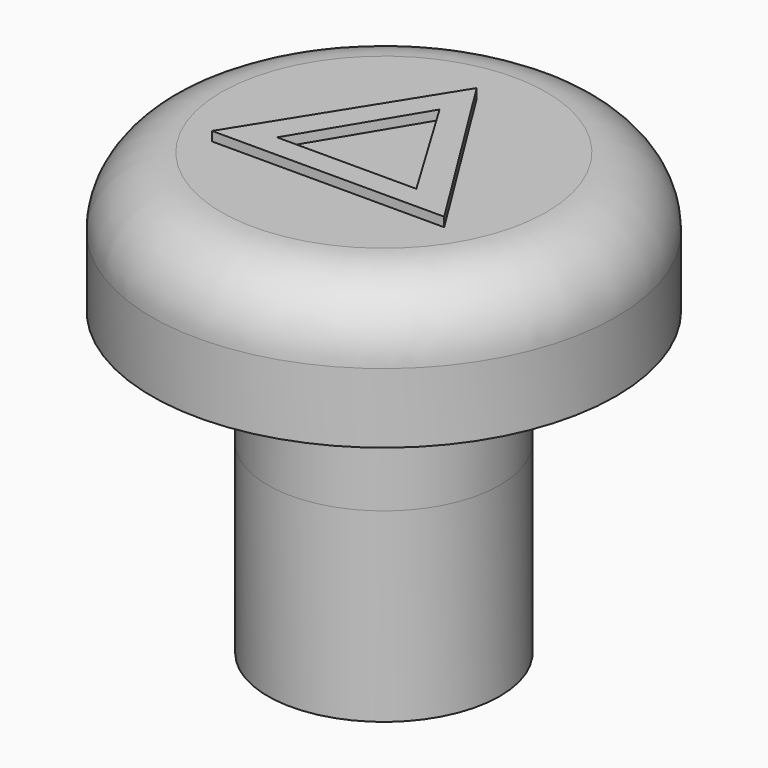
from build123d import *

# Parameters (mm, degrees)
SKETCH046_R     = 2.5
PAD023_DEPTH    = 2.5
SKETCH047_R     = 5
PAD024_DEPTH    = 3
FILLET003_R     = 1.5
SKETCH049_R     = 2.5
PAD025_DEPTH    = 4
SKETCH050_R     = 1.5
POCKET026_DEPTH = 4
PAD056_DEPTH    = 0.2


with BuildPart() as part:
    # Sketch046 → Pad023 (new body)
    with BuildSketch(Plane(origin=(0, 0, 30), x_dir=(1, 0, 0), z_dir=(0, 0, -1))):
        with Locations((101, 55)):
            Circle(SKETCH046_R)
    extrude(amount=-PAD023_DEPTH)

    # Sketch047 (on Face3 of Pad023) → Pad024 (join)
    with BuildSketch(Plane.XY.offset(32.5)):
        with Locations((101, -55)):
            Circle(SKETCH047_R)
    extrude(amount=PAD024_DEPTH)

    # Fillet003
    fillet003_edges = [part.edges().sort_by_distance(p)[0] for p in [
        (96, -55, 35.5),
    ]]
    fillet(fillet003_edges, radius=FILLET003_R)

    # Sketch049 → Pad025 (join)
    with BuildSketch(Plane(origin=(0, 0, 30), x_dir=(1, 0, 0), z_dir=(0, 0, -1))):
        with Locations((101, 55)):
            Circle(SKETCH049_R)
    extrude(amount=PAD025_DEPTH)

    # Sketch050 (on Face17 of Pad025) → Pocket026 (cut)
    with BuildSketch(Plane(origin=(0, 0, 26), x_dir=(1, 0, 0), z_dir=(0, 0, -1))):
        with Locations((101, 55)):
            Circle(SKETCH050_R)
    extrude(amount=-POCKET026_DEPTH, mode=Mode.SUBTRACT)


with BuildPart() as part_1:
    # Body002 placement: moved
    add(part.part.moved(Location((75, 0, 0))))

    # Sketch090 (on Face4 of Clone004) → Pad056 (new body)
    with BuildSketch(Plane(origin=(75, 0, 35.5), x_dir=(1, 0, 0), z_dir=(0, 0, 1))):
        Polygon((98.5, -56.5), (103.5, -56.5), (101, -52.5), align=None)
        Polygon((101, -53.5), (99.5, -56), (102.5, -56), align=None, mode=Mode.SUBTRACT)
    extrude(amount=PAD056_DEPTH)


with BuildPart() as part_2:
    # Body013 placement: moved
    add(part_1.part.moved(Location((-52.5, 45, 0))))


solid = part_2.part
